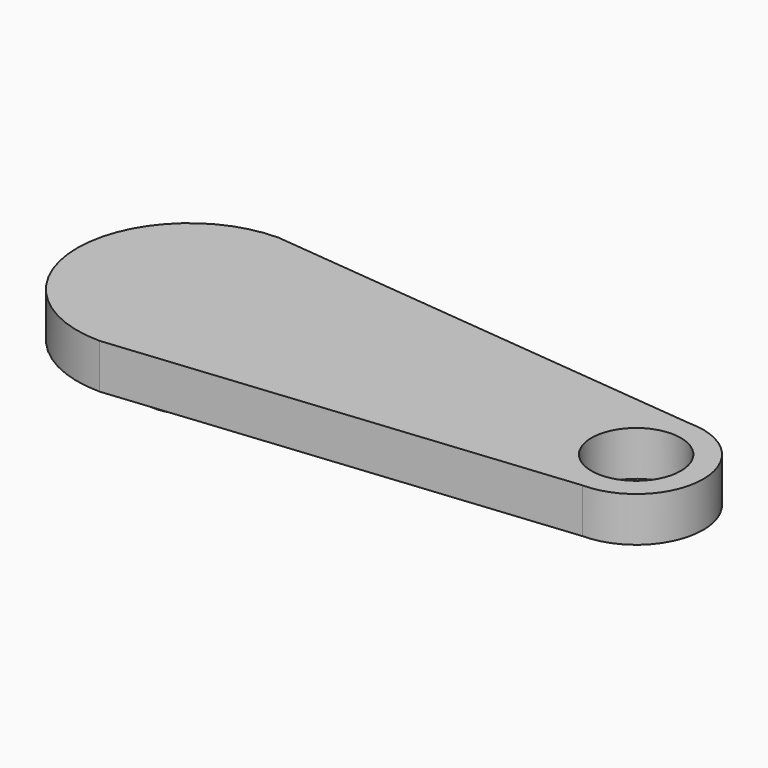
from build123d import *

# Parameters (mm, degrees)
PAD_DEPTH    = 25
SKETCH001_R  = 48
PAD001_DEPTH = 48
SKETCH002_R  = 50
POCKET_DEPTH = 51


with BuildPart() as part:
    # Sketch → Pad (new body, symmetric)
    with BuildSketch(Plane.XY):
        with BuildLine():
            ThreePointArc((0, 125), (-125, 0), (0, -125))
            Line((0, -125), (500, -75))
            ThreePointArc((500, -75), (575, 0), (500, 75))
            Line((0, 125), (500, 75))
        make_face()
    extrude(amount=PAD_DEPTH, both=True)

    # Sketch001 (on Face5 of Pad) → Pad001 (join)
    with BuildSketch(Plane(origin=(0, 0, -25), x_dir=(1, 0, 0), z_dir=(0, 0, -1))):
        Circle(SKETCH001_R)
    extrude(amount=PAD001_DEPTH)

    # Sketch002 (on Face5 of Pad001) → Pocket (cut)
    with BuildSketch(Plane.XY.offset(25)):
        with Locations((500, 0)):
            Circle(SKETCH002_R)
    extrude(amount=-POCKET_DEPTH, mode=Mode.SUBTRACT)


solid = part.part
